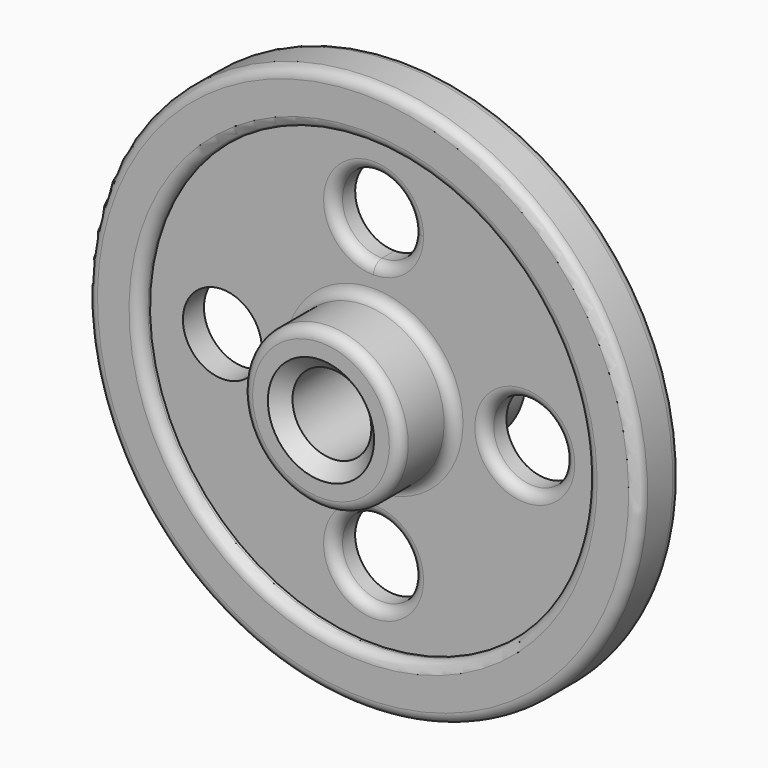
from build123d import *

# Parameters (mm, degrees)
F2_R     = 19.05
F3_DEPTH = 25.4
F4_R     = 5.08
F5_SIZE  = 6.604


with BuildPart() as f1:
    # F0 (on Right) → F1 (revolve)
    with BuildSketch(Plane.YZ):
        Polygon((0, 19.05), (38.1, 19.05), (38.1, 38.1), (6.35, 38.1), (6.35, 107.95), (12.7, 107.95), (12.7, 133.35), (0, 133.35), (-12.7, 133.35), (-12.7, 107.95), (-6.35, 107.95), (-6.35, 38.1), (-38.1, 38.1), (-38.1, 19.05), align=None)
    revolve(axis=Axis((0, 114.239678, 0), (0, 1, 0)))

    # F2 (on face) → F3 (cut)
    with BuildSketch(Plane.XZ.offset(6.35)):
        with Locations((0, -73.025)):
            Circle(F2_R)
        with Locations((73.025, 0)):
            Circle(F2_R)
        with Locations((-73.025, 0)):
            Circle(F2_R)
        with BuildLine():
            ThreePointArc((19.05, 73.025), (-13.470384, 86.495384), (0, 53.975))
            ThreePointArc((0, 53.975), (13.470384, 59.554616), (19.05, 73.025))
        make_face()
    extrude(amount=-F3_DEPTH, mode=Mode.SUBTRACT)

    # F4
    f4_edges = [f1.edges().sort_by_distance(p)[0] for p in [
        (0, -6.35, -38.1),
        (0, -38.1, -38.1),
        (0, -6.35, 92.075),
        (0, -12.7, -107.95),
        (-19.05, -6.35, -73.025),
        (53.975, -6.35, 0),
        (0, -12.7, -133.35),
        (0, 12.7, -133.35),
        (0, -22.225, 38.1),
    ]]
    fillet(f4_edges, radius=F4_R)

    # F5
    f5_edges = [f1.edges().sort_by_distance(p)[0] for p in [
        (0, -38.1, -19.05),
    ]]
    chamfer(f5_edges, length=F5_SIZE)


solid = f1.part
